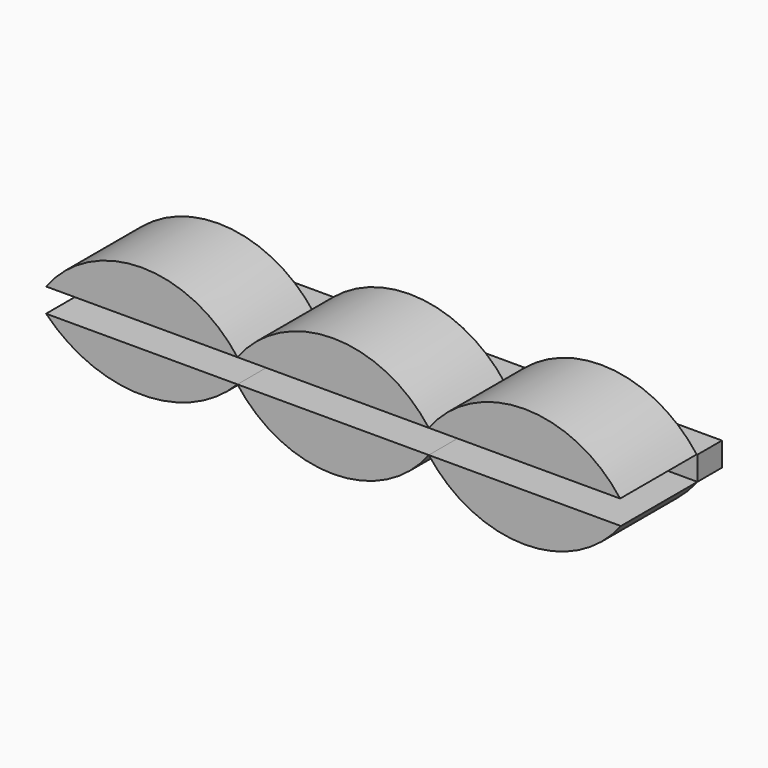
from build123d import *

# Parameters (mm, degrees)
F1_DEPTH = 25.4
F2_DEPTH = 8.128


with BuildPart() as f1:
    # F0 (on Front) → F1 (new body)
    with BuildSketch(Plane.XZ):
        with BuildLine():
            Line((-21.972321, -6.35), (-72.772321, -6.35))
            ThreePointArc((-72.772321, -6.35), (-47.372321, -17.049501), (-21.972321, -6.35))
        make_face()
        with BuildLine():
            Line((-72.772321, 0), (-21.972321, 0))
            ThreePointArc((-21.972321, 0), (-47.372321, 12.7), (-72.772321, 0))
        make_face()
        with BuildLine():
            Line((28.827679, -6.35), (-21.972321, -6.35))
            ThreePointArc((-21.972321, -6.35), (3.427679, -19.05), (28.827679, -6.35))
        make_face()
        with BuildLine():
            ThreePointArc((28.827679, 0), (3.427679, 12.7), (-21.972321, 0))
            Line((-21.972321, 0), (28.827679, 0))
        make_face()
        with BuildLine():
            Line((79.825647, -6.35), (28.827679, -6.35))
            ThreePointArc((28.827679, -6.35), (54.326663, -18.986092), (79.825647, -6.35))
        make_face()
        with BuildLine():
            ThreePointArc((79.627679, 0), (54.227679, 12.7), (28.827679, 0))
            Line((28.827679, 0), (79.627679, 0))
        make_face()
    extrude(amount=F1_DEPTH)


with BuildPart() as f2:
    # F0 (on Front) → F2 (new body)
    with BuildSketch(Plane.XZ):
        Polygon((28.827679, 0), (-21.972321, 0), (-72.772321, 0), (-72.772321, -6.35), (-21.972321, -6.35), (28.827679, -6.35), (79.825647, -6.35), (79.825647, 0), (79.627679, 0), align=None)
    extrude(amount=-F2_DEPTH)


solid = Compound([f1.part, f2.part])
